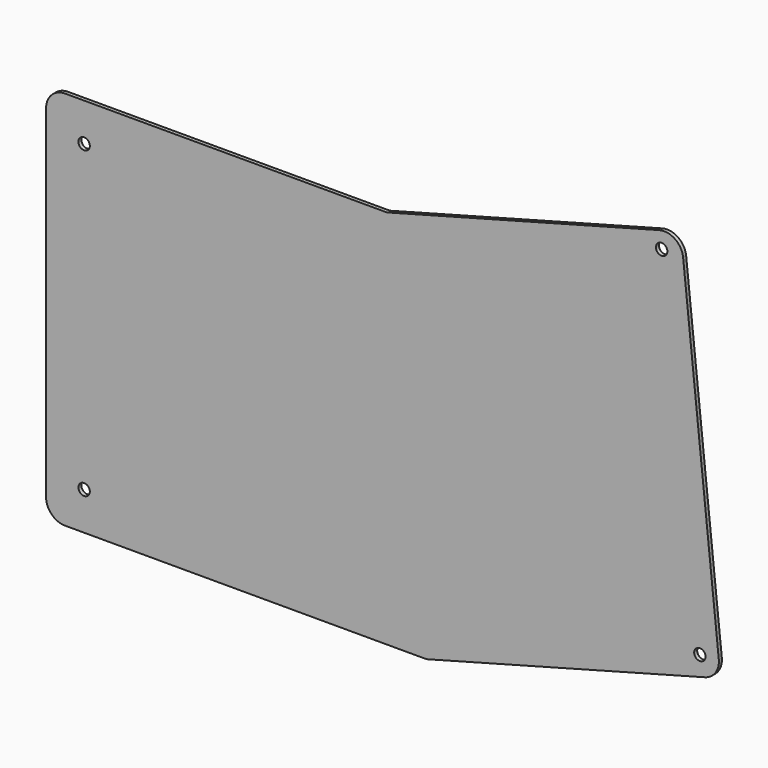
from build123d import *

# Parameters (mm, degrees)
F0_R     = 1.5
F1_DEPTH = 1


with BuildPart() as f1:
    # F0 (on Front) → F1 (new body)
    with BuildSketch(Plane.XZ):
        with BuildLine():
            Line((0, 95), (0, 5))
            ThreePointArc((0, 5), (1.464466, 1.464466), (5, 0))
            Line((5, 0), (100, 0))
            Line((100, 0), (173.15291, 19.601263))
            ThreePointArc((173.15291, 19.601263), (175.978178, 21.597017), (176.83189, 24.949084))
            Line((176.83189, 24.949084), (167.461399, 114.877521))
            ThreePointArc((167.461399, 114.877521), (165.322199, 118.478693), (161.194229, 119.188959))
            Line((161.194229, 119.188959), (89.580058, 100))
            Line((89.580058, 100), (5, 100))
            ThreePointArc((5, 100), (1.464466, 98.535534), (0, 95))
        make_face()
        with Locations((10, 10)):
            Circle(F0_R, mode=Mode.SUBTRACT)
        with Locations((171.858814, 24.430892)):
            Circle(F0_R, mode=Mode.SUBTRACT)
        with Locations((10, 90)):
            Circle(F0_R, mode=Mode.SUBTRACT)
        with Locations((161.815092, 114.950262)):
            Circle(F0_R, mode=Mode.SUBTRACT)
    extrude(amount=F1_DEPTH)


solid = f1.part
